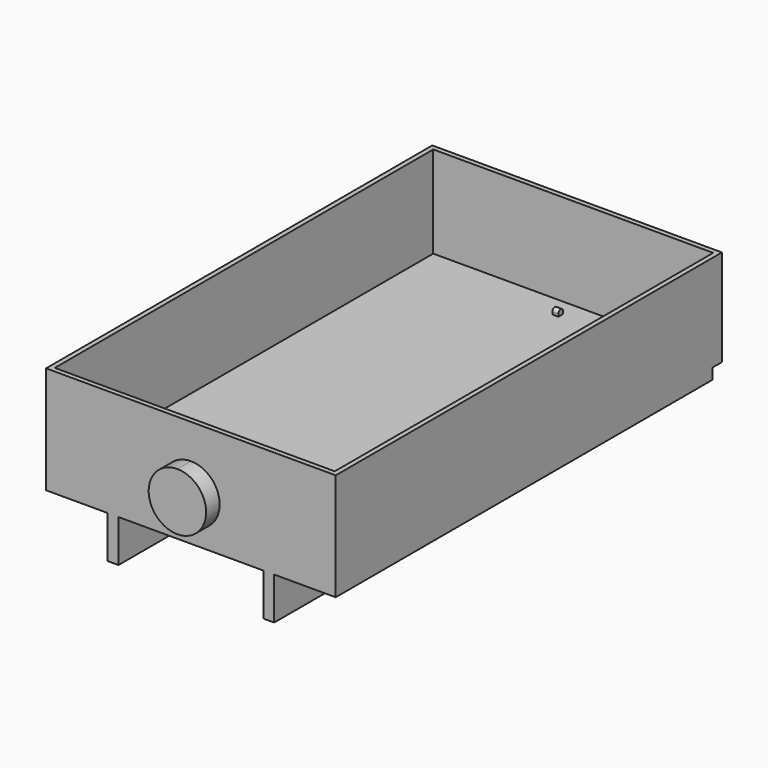
from build123d import *

# Parameters (mm, degrees)
F0_W           = 600
F0_H           = 2000
F1_DEPTH       = 400
F2_T           = -20
F4_DEPTH       = 70
F5_W           = 25
F5_H           = 30
F6_DEPTH       = 12.5
F7_W           = 300
F7_H           = 44.7851331079
F7_W_2         = 45
F7_W_3         = 255
F7_H_2         = 175.2148668921
F8_DEPTH       = 1000
F8_DEPTH_BACK  = 950
F10_R          = 27.9824593268
F11_DEPTH      = 600.001
F11_DEPTH_BACK = 600.001


with BuildPart() as f1:
    # F0 (on Top) → F1 (new body)
    with BuildSketch(Plane.XY):
        with Locations((-300, 0)):
            Rectangle(F0_W, F0_H)
    extrude(amount=F1_DEPTH)

    # F2
    f2_openings = [f1.faces().sort_by_distance(p)[0] for p in [
        (-300, 0, 400),
        (0, 0, 200),
    ]]
    offset(amount=F2_T, openings=f2_openings)

    # F3 (on face) → F4 (join)
    with BuildSketch(Plane.XZ.offset(1000)):
        with BuildLine():
            Line((0, 18.4187632612), (0, 256.5082568117))
            ThreePointArc((0, 256.5082568117), (-119.0447467752, 137.4635100365), (0, 18.4187632612))
        make_face()
        with BuildLine():
            ThreePointArc((0, 18.4187632612), (84.1773477094, 53.2861623271), (119.0447467752, 137.4635100365))
            ThreePointArc((119.0447467752, 137.4635100365), (84.1773477094, 221.6408577459), (0, 256.5082568117))
            Line((0, 256.5082568117), (0, 18.4187632612))
        make_face()
    extrude(amount=F4_DEPTH)

    # F5 (on Right) → F6 (join, symmetric)
    with BuildSketch(Plane.YZ):
        with Locations((900, 15)):
            Rectangle(F5_W, F5_H)
        with BuildLine():
            ThreePointArc((912.5, 30), (900, 42.5), (887.5, 30))
            Line((887.5, 30), (912.5, 30))
        make_face()
    extrude(amount=F6_DEPTH, both=True)

    # F7 (on Front) → F8 (join, two sides)
    with BuildSketch(Plane.XZ) as f8_sk:
        with Locations((-150, -22.392566554)):
            Rectangle(F7_W, F7_H)
        with Locations((-322.5, -22.392566554)):
            Rectangle(F7_W_2, F7_H)
        with Locations((-472.5, -22.392566554)):
            Rectangle(F7_W_3, F7_H)
        with Locations((-322.5, -132.392566554)):
            Rectangle(F7_W_2, F7_H_2)
    extrude(amount=F8_DEPTH)
    extrude(f8_sk.sketch, amount=-F8_DEPTH_BACK)

    # F9: F1 across plane


with BuildPart() as f1_1:
    add(f1.part)
    add(f1.part.mirror(Plane.YZ))

    # F10 (on Right) → F11 (cut, two sides)
    with BuildSketch(Plane.YZ) as f11_sk:
        with Locations((500, -130.9047937393)):
            Circle(F10_R)
    extrude(amount=-F11_DEPTH, mode=Mode.SUBTRACT)
    extrude(f11_sk.sketch, amount=F11_DEPTH_BACK, mode=Mode.SUBTRACT)


solid = f1_1.part
